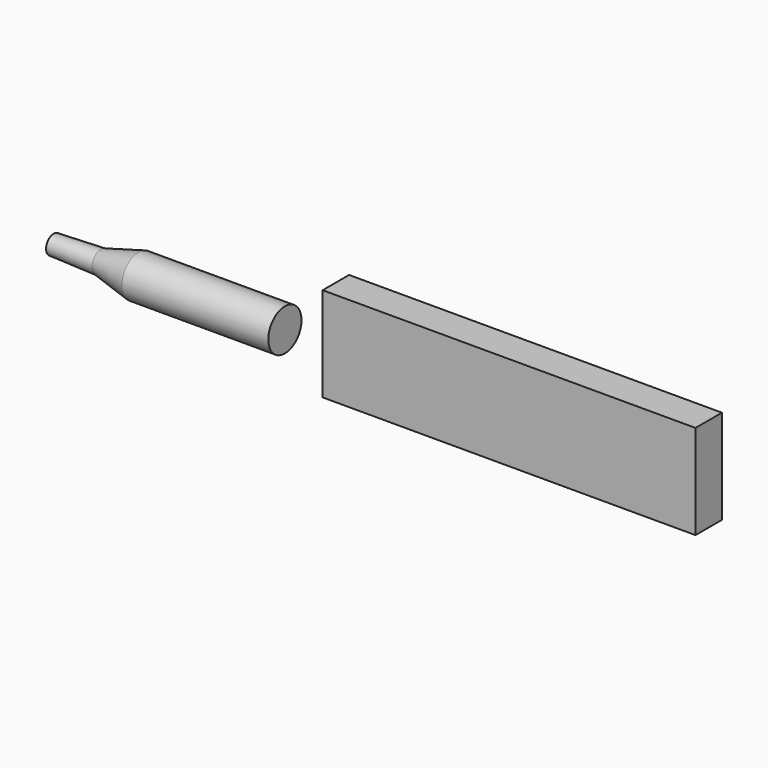
from build123d import *

# Parameters (mm, degrees)
F0_W     = 39.5
F0_H     = 5
F2_DEPTH = 3.5


with BuildPart() as f1:
    # F0 (on Front) → F1 (revolve)
    with BuildSketch(Plane.XZ):
        Polygon((-65.712437, 1), (-65.712437, 0), (-41.212437, 0), (-41.212437, 2.2), (-56.712437, 2.2), (-60.712437, 1.175), align=None)
    revolve(axis=Axis((-53.462437, 0, 0), (1, 0, 0)))


with BuildPart() as f2:
    # F0 (on Front) → F2 (new body)
    with BuildSketch(Plane.XZ):
        with Locations((-17.462437, 2.5)):
            Rectangle(F0_W, F0_H)
        with Locations((-17.462437, -2.5)):
            Rectangle(F0_W, F0_H)
    extrude(amount=-F2_DEPTH)


solid = Compound([f1.part, f2.part])
